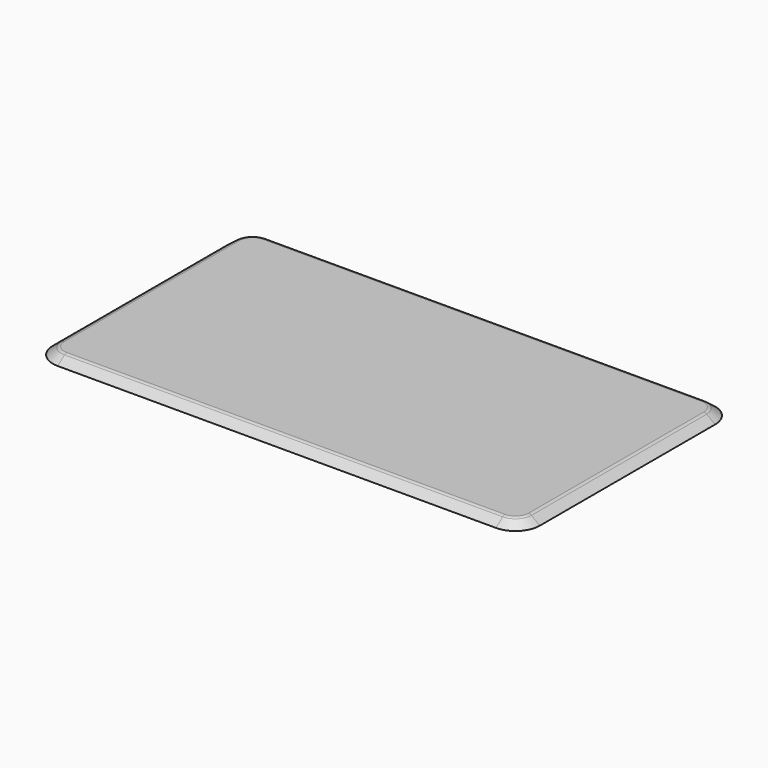
from build123d import *

# Parameters (mm, degrees)
F0_W     = 1900
F0_H     = 1000
F1_DEPTH = 30
F2_R     = 50


with BuildPart() as f1:
    # F0 (on Top) → F1 (new body)
    with BuildSketch(Plane.XY):
        Rectangle(F0_W, F0_H)
    extrude(amount=F1_DEPTH)

    # F2
    f2_edges = [f1.edges().sort_by_distance(p)[0] for p in [
        (-950, -500, 15),
        (-950, 500, 15),
        (950, -500, 15),
        (950, 500, 15),
    ]]
    fillet(f2_edges, radius=F2_R)

    # F6: sweep along a path in F5
    with BuildLine(Plane.XY.offset(30)) as f6_path:
        Line((900, 500), (-900, 500))
        ThreePointArc((-900, 500), (-935.3553390593, 485.3553390593), (-950, 450))
        Line((-950, 450), (-950, -450))
        ThreePointArc((-950, -450), (-935.3553390593, -485.3553390593), (-900, -500))
        Line((-900, -500), (900, -500))
        ThreePointArc((900, -500), (935.3553390593, -485.3553390593), (950, -450))
        Line((950, -450), (950, 450))
        ThreePointArc((950, 450), (935.3553390593, 485.3553390593), (900, 500))
    # F4 (on offset) → F6 (sweep)
    with BuildSketch(Plane.XZ.offset(450)):
        with BuildLine():
            Line((953.3333333333, 30), (950, 30))
            Line((950, 30), (950, 0))
            Line((950, 0), (1000, 0))
            Line((1000, 0), (965.3333333333, 26))
            ThreePointArc((965.3333333333, 26), (959.6578886537, 28.973665961), (953.3333333333, 30))
        make_face()
    sweep(path=f6_path.line)


solid = f1.part
